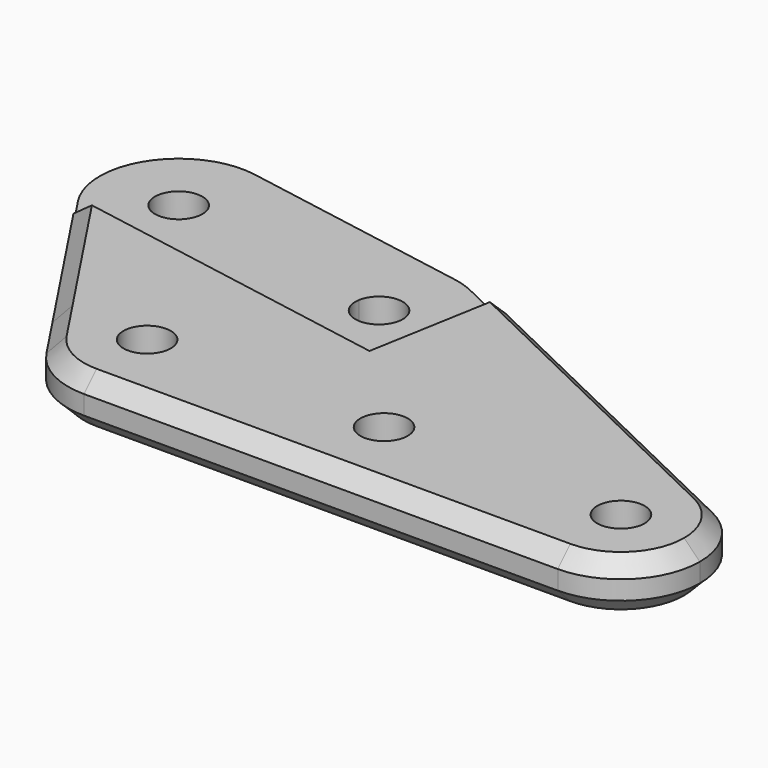
from build123d import *

# Parameters (mm, degrees)
F0_R     = 3
F1_DEPTH = 6.4
F4_DEPTH = 3.2
F5_SIZE  = 2


with BuildPart() as f1:
    # F0 (on Top) → F1 (new body)
    with BuildSketch(Plane.XY):
        with BuildLine():
            Line((-69.9830439783, 22.2635182233), (-43.4754125815, 17.5895076134))
            Line((-43.4754125815, 17.5895076134), (-75.4919030254, 33.0095051449))
            ThreePointArc((-75.4919030254, 33.0095051449), (-71.3637669974, 29.3201416884), (-69.8311215084, 24))
            ThreePointArc((-69.8311215084, 24), (-69.8691745275, 23.1284425725), (-69.9830439783, 22.2635182233))
        make_face()
        with BuildLine():
            Line((-90, -10), (-30, -10))
            ThreePointArc((-30, -10), (-37.0710678119, -7.0710678119), (-40, 0))
            Line((-40, 0), (-57, 0))
            ThreePointArc((-57, 0), (-60, -3), (-63, 0))
            Line((-63, 0), (-80, 0))
            ThreePointArc((-80, 0), (-82.9289321881, -7.0710678119), (-90, -10))
        make_face()
        with BuildLine():
            Line((-78.0946397318, 33.8480775301), (-107.6388723221, 39.0575228601))
            ThreePointArc((-107.6388723221, 39.0575228601), (-101.7149096676, 35.6373214269), (-99.3753540988, 29.20944533))
            ThreePointArc((-99.3753540988, 29.20944533), (-99.4134071179, 28.3378879025), (-99.5272765687, 27.4729635533))
            Line((-99.5272765687, 27.4729635533), (-89.6791990386, 25.7364817767))
            ThreePointArc((-89.6791990386, 25.7364817767), (-85.566885872, 32.1915204429), (-78.0946397318, 33.8480775301))
        make_face()
        with BuildLine():
            Line((-78.0946397318, 33.8480775301), (-107.6388723221, 39.0575228601))
            ThreePointArc((-107.6388723221, 39.0575228601), (-101.7149096676, 35.6373214269), (-99.3753540988, 29.20944533))
            ThreePointArc((-99.3753540988, 29.20944533), (-99.4134071179, 28.3378879025), (-99.5272765687, 27.4729635533))
            Line((-99.5272765687, 27.4729635533), (-89.6791990386, 25.7364817767))
            ThreePointArc((-89.6791990386, 25.7364817767), (-85.566885872, 32.1915204429), (-78.0946397318, 33.8480775301))
        make_face()
        with BuildLine():
            ThreePointArc((-89.6791990386, 25.7364817767), (-81.5676032851, 14.1519224699), (-69.9830439783, 22.2635182233))
            Line((-69.9830439783, 22.2635182233), (-76.8766982494, 23.479055467))
            ThreePointArc((-76.8766982494, 23.479055467), (-80.3520660414, 21.045576741), (-82.7855447675, 24.520944533))
            Line((-82.7855447675, 24.520944533), (-89.6791990386, 25.7364817767))
        make_face()
        with BuildLine():
            Line((-69.9830439783, 22.2635182233), (-43.4754125815, 17.5895076134))
            Line((-43.4754125815, 17.5895076134), (-75.4919030254, 33.0095051449))
            ThreePointArc((-75.4919030254, 33.0095051449), (-71.3637669974, 29.3201416884), (-69.8311215084, 24))
            ThreePointArc((-69.8311215084, 24), (-69.8691745275, 23.1284425725), (-69.9830439783, 22.2635182233))
        make_face()
        with BuildLine():
            ThreePointArc((-69.8311215084, 24), (-71.3637669974, 29.3201416884), (-75.4919030254, 33.0095051449))
            ThreePointArc((-75.4919030254, 33.0095051449), (-76.7644727965, 33.5181755435), (-78.0946397318, 33.8480775301))
            ThreePointArc((-78.0946397318, 33.8480775301), (-85.566885872, 32.1915204429), (-89.6791990386, 25.7364817767))
            Line((-89.6791990386, 25.7364817767), (-82.7855447675, 24.520944533))
            ThreePointArc((-82.7855447675, 24.520944533), (-79.5696542802, 26.9885840943), (-76.8311215084, 24))
            ThreePointArc((-76.8311215084, 24), (-76.8425374142, 23.7385327718), (-76.8766982494, 23.479055467))
            Line((-76.8766982494, 23.479055467), (-69.9830439783, 22.2635182233))
            ThreePointArc((-69.9830439783, 22.2635182233), (-69.8691745275, 23.1284425725), (-69.8311215084, 24))
        make_face()
        with BuildLine():
            Line((-57, 0), (-40, 0))
            ThreePointArc((-40, 0), (-35.3201416884, 8.467354511), (-25.660781517, 9.0095051449))
            Line((-25.660781517, 9.0095051449), (-43.4754125815, 17.5895076134))
            Line((-43.4754125815, 17.5895076134), (-69.9830439783, 22.2635182233))
            ThreePointArc((-69.9830439783, 22.2635182233), (-81.5676032851, 14.1519224699), (-89.6791990386, 25.7364817767))
            Line((-89.6791990386, 25.7364817767), (-99.5272765687, 27.4729635533))
            ThreePointArc((-99.5272765687, 27.4729635533), (-107.3340404203, 19.4200102868), (-117.7086874321, 23.6817373461))
            Line((-117.7086874321, 23.6817373461), (-102, 0))
            Line((-102, 0), (-98.3333333333, -5.5277079839))
            ThreePointArc((-98.3333333333, -5.5277079839), (-92.8867513459, 9.5742710776), (-80, 0))
            Line((-80, 0), (-63, 0))
            ThreePointArc((-63, 0), (-60, 3), (-57, 0))
        make_face()
        with BuildLine():
            Line((-90, -10), (-30, -10))
            ThreePointArc((-30, -10), (-37.0710678119, -7.0710678119), (-40, 0))
            Line((-40, 0), (-57, 0))
            ThreePointArc((-57, 0), (-60, -3), (-63, 0))
            Line((-63, 0), (-80, 0))
            ThreePointArc((-80, 0), (-82.9289321881, -7.0710678119), (-90, -10))
        make_face()
        with BuildLine():
            ThreePointArc((-98.3333333333, -5.5277079839), (-94.7287905515, -8.8112734562), (-90, -10))
            ThreePointArc((-90, -10), (-82.9289321881, -7.0710678119), (-80, 0))
            ThreePointArc((-80, 0), (-92.8867513459, 9.5742710776), (-98.3333333333, -5.5277079839))
        make_face()
        with Locations((-90, 0)):
            Circle(F0_R, mode=Mode.SUBTRACT)
        with BuildLine():
            ThreePointArc((-107.6388723221, 39.0575228601), (-117.7409567465, 34.6881944885), (-117.7086874321, 23.6817373461))
            ThreePointArc((-117.7086874321, 23.6817373461), (-107.3340404203, 19.4200102868), (-99.5272765687, 27.4729635533))
            ThreePointArc((-99.5272765687, 27.4729635533), (-99.4134071179, 28.3378879025), (-99.3753540988, 29.20944533))
            ThreePointArc((-99.3753540988, 29.20944533), (-101.7149096676, 35.6373214269), (-107.6388723221, 39.0575228601))
        make_face()
        with BuildLine():
            ThreePointArc((-106.3753540988, 29.20944533), (-106.3867700045, 28.9479781018), (-106.4209308398, 28.688500797))
            ThreePointArc((-106.4209308398, 28.688500797), (-112.3639381931, 29.4709125583), (-106.3753540988, 29.20944533))
        make_face(mode=Mode.SUBTRACT)
        with BuildLine():
            ThreePointArc((-40, 0), (-37.0710678119, -7.0710678119), (-30, -10))
            ThreePointArc((-30, -10), (-22.9289321881, -7.0710678119), (-20, 0))
            Line((-20, 0), (-27, 0))
            ThreePointArc((-27, 0), (-30, -3), (-33, 0))
            Line((-33, 0), (-40, 0))
        make_face()
        with BuildLine():
            Line((-27, 0), (-20, 0))
            ThreePointArc((-20, 0), (-21.532645489, 5.3201416884), (-25.660781517, 9.0095051449))
            ThreePointArc((-25.660781517, 9.0095051449), (-35.3201416884, 8.467354511), (-40, 0))
            Line((-40, 0), (-33, 0))
            ThreePointArc((-33, 0), (-30, 3), (-27, 0))
        make_face()
    extrude(amount=F1_DEPTH)

    # F3 (on offset) → F4 (cut)
    with BuildSketch(Plane.XY.offset(6.4)):
        with BuildLine():
            Line((-121.5190547769, 44.7572868572), (-125.6350207552, 21.4144838341))
            Line((-125.6350207552, 21.4144838341), (-111.1986603593, 18.868963993))
            Line((-111.1986603593, 18.868963993), (-81.6544272584, 13.659518573))
            ThreePointArc((-81.6544272584, 13.659518573), (-86.5803914551, 32.043466615), (-69.3311215084, 24))
            ThreePointArc((-69.3311215084, 24), (-69.3710771859, 23.0848646168), (-69.4906401312, 22.1766939678))
            Line((-69.4906401312, 22.1766939678), (-67.197979989, 35.179015751))
            Line((-67.197979989, 35.179015751), (-121.5190547769, 44.7572868572))
        make_face()
        with BuildLine():
            ThreePointArc((-98.8753540988, 29.20944533), (-102.6260843507, 21.1659785483), (-111.1986603593, 18.868963993))
            ThreePointArc((-111.1986603593, 18.868963993), (-116.1246238469, 37.2529121117), (-98.8753540988, 29.20944533))
        make_face(mode=Mode.SUBTRACT)
        with BuildLine():
            ThreePointArc((-98.8753540988, 29.20944533), (-116.1246238469, 37.2529121117), (-111.1986603593, 18.868963993))
            ThreePointArc((-111.1986603593, 18.868963993), (-102.6260843507, 21.1659785483), (-98.8753540988, 29.20944533))
        make_face()
        with BuildLine():
            ThreePointArc((-69.3311215084, 24), (-86.5803914551, 32.043466615), (-81.6544272584, 13.659518573))
            ThreePointArc((-81.6544272584, 13.659518573), (-73.808568948, 15.3989035201), (-69.4906401312, 22.1766939678))
            ThreePointArc((-69.4906401312, 22.1766939678), (-69.3710771859, 23.0848646168), (-69.3311215084, 24))
        make_face()
        with BuildLine():
            ThreePointArc((-69.4906401312, 22.1766939678), (-73.808568948, 15.3989035201), (-81.6544272584, 13.659518573))
            Line((-81.6544272584, 13.659518573), (-71.3139459673, 11.8362127279))
            Line((-71.3139459673, 11.8362127279), (-69.4906401312, 22.1766939678))
        make_face()
    extrude(amount=-F4_DEPTH, mode=Mode.SUBTRACT)

    # F5
    f5_edges = [f1.edges().sort_by_distance(p)[0] for p in [
        (-50.576342, 21.009505, 0),
        (-46.930289, 19.253468, 6.4),
    ]]
    chamfer(f5_edges, length=F5_SIZE)


with BuildPart() as f6_1:
    # F6: instance of F1
    add(f1.part.mirror(Plane(origin=(-64.9639850302, 5.284700152, 6.4), x_dir=(1, 0, 0), z_dir=(0, 0, 1))))


with BuildPart() as f8_1:
    # F8: instance of F6_1
    add(f6_1.part.mirror(Plane(origin=(-73.367736388, 11.21261041, 12.8), x_dir=(1, 0, 0), z_dir=(0, 0, 1))))


solid = f8_1.part
